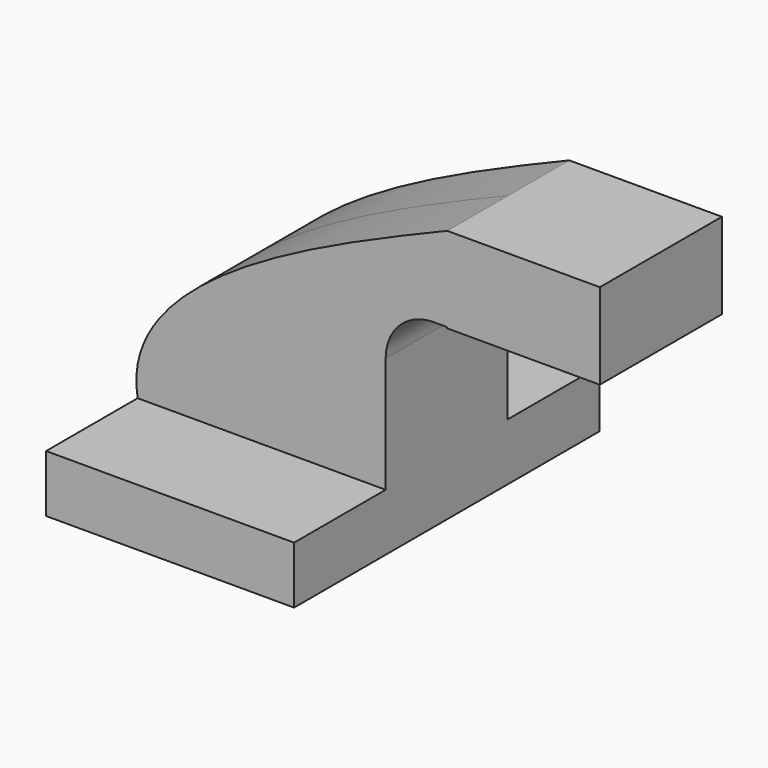
from build123d import *

# Parameters (mm, degrees)
F1_DEPTH = 63.5
F2_DEPTH = 25.4


with BuildPart() as f1:
    # F0 (on Front) → F1 (new body, symmetric)
    with BuildSketch(Plane.XZ):
        Polygon((-41.275, -9.525), (41.275, -9.525), (41.275, 9.525), (22.225, 9.525), (-41.275, 9.525), align=None)
    extrude(amount=F1_DEPTH, both=True)

    # F0 (on Front) → F2 (join, symmetric)
    with BuildSketch(Plane.XZ):
        Polygon((-41.275, -9.525), (41.275, -9.525), (41.275, 9.525), (22.225, 9.525), (-41.275, 9.525), align=None)
        with BuildLine():
            Line((22.225, 9.525), (41.275, 9.525))
            Line((41.275, 9.525), (41.275, 47.981745))
            ThreePointArc((41.275, 47.981745), (45.92468, 59.207065), (57.15, 63.856745))
            Line((57.15, 63.856745), (61.7728, 63.856745))
            Line((61.7728, 63.856745), (61.7728, 82.906745))
            Line((61.7728, 82.906745), (57.15, 82.906745))
            ThreePointArc((57.15, 82.906745), (32.454296, 72.677449), (22.225, 47.981745))
            Line((22.225, 47.981745), (22.225, 9.525))
        make_face()
        with BuildLine():
            add(Edge.make_bspline(
                [(-41.275, 9.525), (-47.686826, 46.034317), (17.941579, 73.890977), (61.7728, 92.075)],
                knots=[0, 0, 0, 0, 132.035418, 132.035418, 132.035418, 132.035418], degree=3))
            Line((-41.275, 9.525), (22.225, 9.525))
            Line((22.225, 9.525), (22.225, 47.981745))
            ThreePointArc((22.225, 47.981745), (32.454296, 72.677449), (57.15, 82.906745))
            Line((57.15, 82.906745), (61.7728, 82.906745))
            Line((61.7728, 82.906745), (61.7728, 92.075))
        make_face()
        Polygon((112.5728, 92.075), (61.7728, 92.075), (61.7728, 82.906745), (61.7728, 63.856745), (61.7728, 63.5), (112.5728, 63.5), align=None)
    extrude(amount=F2_DEPTH, both=True)


solid = f1.part
